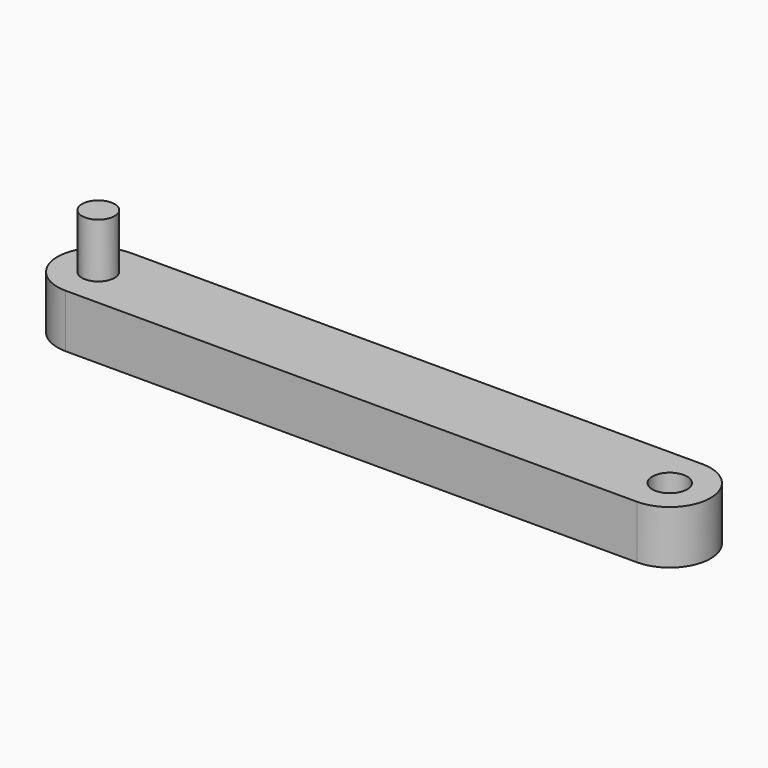
from build123d import *

# Parameters (mm, degrees)
SKETCH_R     = 0.16
PAD_DEPTH    = 0.245
SKETCH001_R  = 0.15
PAD001_DEPTH = 0.5


with BuildPart() as part:
    # Sketch → Pad (new body, symmetric)
    with BuildSketch(Plane.XY):
        with BuildLine():
            Line((-2.625, 0.375), (2.625, 0.375))
            ThreePointArc((2.625, -0.375), (3, 0), (2.625, 0.375))
            Line((2.625, -0.375), (-2.625, -0.375))
            ThreePointArc((-2.625, 0.375), (-3, 0), (-2.625, -0.375))
        make_face()
        with Locations((2.625, 0)):
            Circle(SKETCH_R, mode=Mode.SUBTRACT)
    extrude(amount=PAD_DEPTH, both=True)

    # Sketch001 (on DatumPlane) → Pad001 (join)
    with BuildSketch(Plane.XY.offset(0.245)):
        with Locations((-2.625, 0)):
            Circle(SKETCH001_R)
    extrude(amount=PAD001_DEPTH)


solid = part.part
